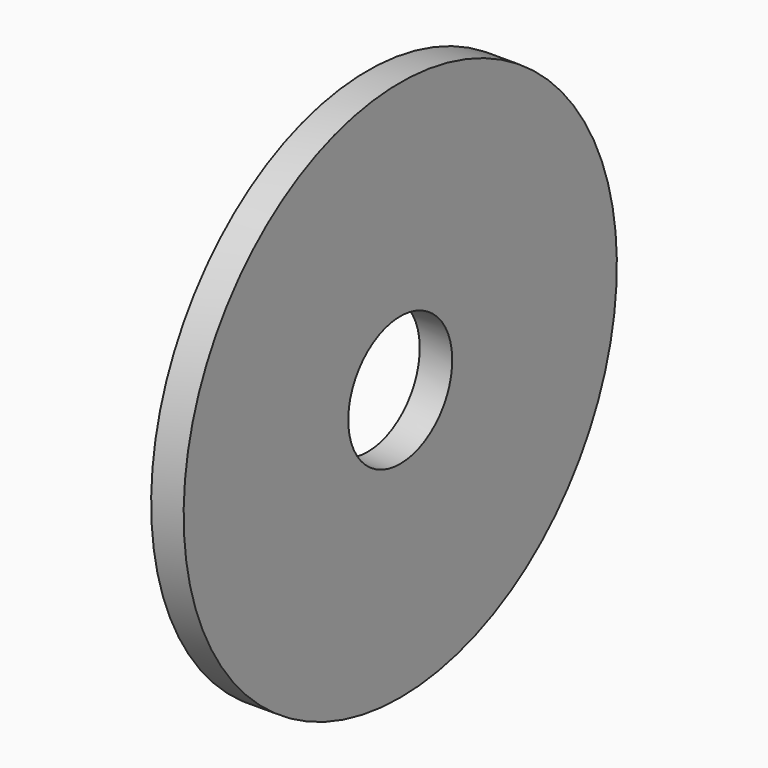
from build123d import *

# Parameters (mm, degrees)
CYLINDER007_R           = 6
CYLINDER007_DEPTH       = 236
CYLINDER007_PITCH_ANGLE = 90
CYLINDER001_R           = 25
CYLINDER001_DEPTH       = 3
CYLINDER001_PITCH_ANGLE = 90


with BuildPart() as connector_bore:
    # Cylinder007 → Cylinder007 (new body)
    with BuildSketch(Plane.XY):
        Circle(CYLINDER007_R)
    extrude(amount=CYLINDER007_DEPTH)


with BuildPart() as connector_bore_1:
    # Cylinder007 pitch: moved
    add(connector_bore.part.rotate(Axis((0, 0, 0), (0, 1, 0)), CYLINDER007_PITCH_ANGLE))


with BuildPart() as connector_bore_2:
    # Cylinder007 placement: moved
    add(connector_bore_1.part.moved(Location((-45, 0, 0))))


with BuildPart() as cut004:
    # Cylinder001 → Cylinder001 (new body)
    with BuildSketch(Plane.XY):
        Circle(CYLINDER001_R)
    extrude(amount=CYLINDER001_DEPTH)


with BuildPart() as cut004_1:
    # Cylinder001 pitch: moved
    add(cut004.part.rotate(Axis((0, 0, 0), (0, 1, 0)), CYLINDER001_PITCH_ANGLE))


with BuildPart() as cut004_2:
    # Cylinder001 placement: moved
    add(cut004_1.part.moved(Location((-3, 0, 0))))

    # Cut004: cut connector_bore
    add(connector_bore_2.part, mode=Mode.SUBTRACT)


solid = cut004_2.part
